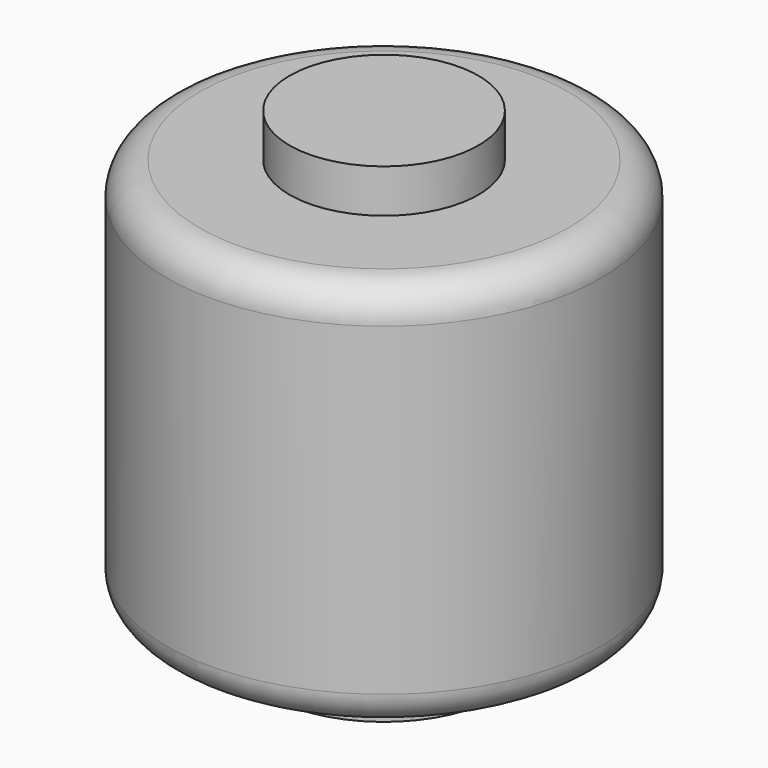
from build123d import *

# Parameters (mm, degrees)
F0_W   = 28.4530296922
F0_H   = 13.0855888128
F0_W_2 = 34.8043181002
F0_H_2 = 13.3176594973
F2_R   = 10


with BuildPart() as f1:
    # F0 (on Front) → F1 (revolve)
    with BuildSketch(Plane.XZ):
        with Locations((-14.2265148461, 65.3495416045)):
            Rectangle(F0_W, F0_H)
        Polygon((0, -58.8067471981), (0, 58.8067471981), (-28.4530296922, 58.8067471981), (-65.5450373888, 58.8067471981), (-65.5450373888, -58.8067471981), (-34.8043181002, -58.8067471981), align=None)
        with Locations((-17.4021590501, -65.4655769467)):
            Rectangle(F0_W_2, F0_H_2)
    revolve(axis=Axis((0, 0, 0), (0, 0, -1)))

    # F2
    f2_edges = [f1.edges().sort_by_distance(p)[0] for p in [
        (65.545037, 0, 58.806747),
        (65.545037, 0, -58.806747),
        (-65.545037, 0, 0),
    ]]
    fillet(f2_edges, radius=F2_R)


solid = f1.part
